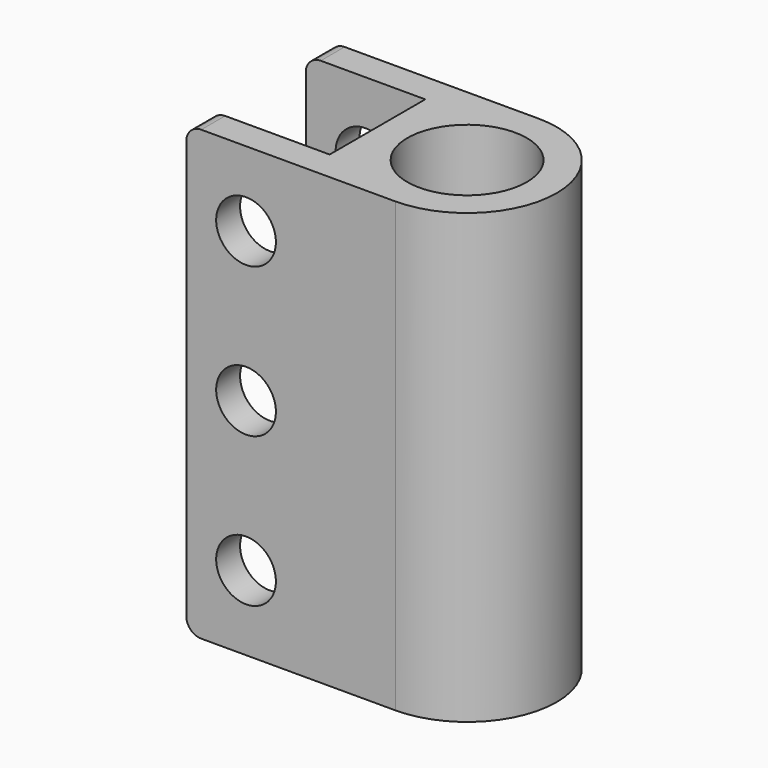
from build123d import *

# Parameters (mm, degrees)
F0_R     = 20
F1_DEPTH = 75
F2_W     = 40
F2_H     = 150
F3_DEPTH = 40
F4_R     = 10
F5_DEPTH = 60
F6_R     = 5
F7_T     = -2


with BuildPart() as f1:
    # F0 (on Top) → F1 (new body, symmetric)
    with BuildSketch(Plane.XY):
        with BuildLine():
            ThreePointArc((30, 0), (21.2132034356, 21.2132034356), (0, 30))
            ThreePointArc((0, 30), (-30, 0), (0, -30))
            ThreePointArc((0, -30), (21.2132034356, -21.2132034356), (30, 0))
        make_face()
        Circle(F0_R, mode=Mode.SUBTRACT)
        with BuildLine():
            Line((0, 30), (-70, 30))
            Line((-70, 30), (-70, -30))
            Line((-70, -30), (0, -30))
            ThreePointArc((0, -30), (-30, 0), (0, 30))
        make_face()
    extrude(amount=F1_DEPTH, both=True)

    # F2 (on face) → F3 (cut)
    with BuildSketch(Plane(origin=(-70, 0, 0), x_dir=(0, -1, 0), z_dir=(-1, 0, 0))):
        Rectangle(F2_W, F2_H)
    extrude(amount=-F3_DEPTH, mode=Mode.SUBTRACT)

    # F4 (on face) → F5 (cut)
    with BuildSketch(Plane.XZ.offset(30)):
        with Locations((-50, 50)):
            Circle(F4_R)
        with Locations((-50, 0)):
            Circle(F4_R)
        with Locations((-50, -50)):
            Circle(F4_R)
    extrude(amount=-F5_DEPTH, mode=Mode.SUBTRACT)

    # F6
    f6_edges = [f1.edges().sort_by_distance(p)[0] for p in [
        (-70, 25, 75),
        (-70, -25, 75),
        (-70, 25, -75),
        (-70, -25, -75),
    ]]
    fillet(f6_edges, radius=F6_R)

    # F7 (hollow: no face is removed)
    offset(amount=F7_T, kind=Kind.INTERSECTION, mode=Mode.SUBTRACT)


solid = f1.part
